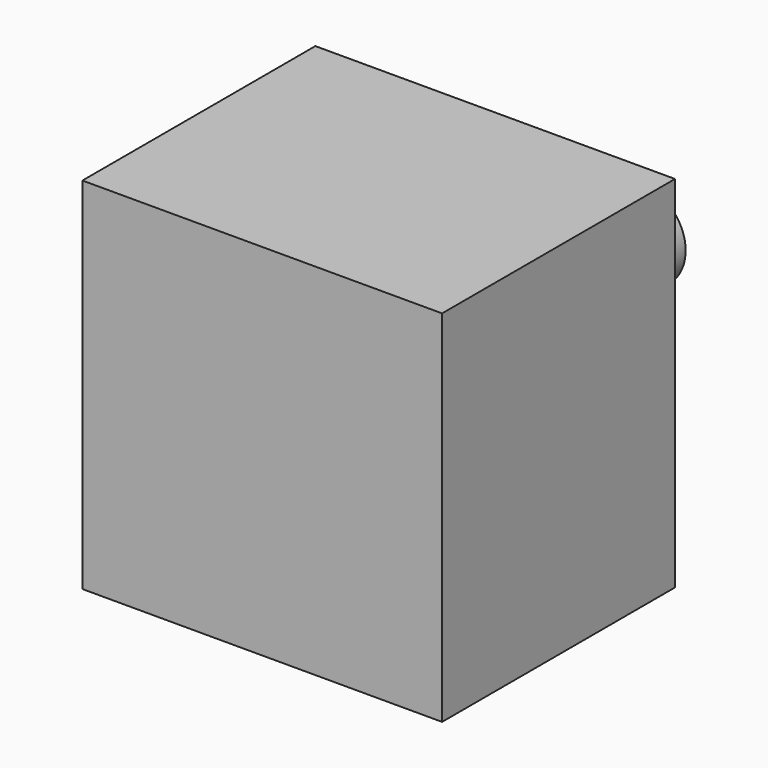
from build123d import *

# Parameters (mm, degrees)
F0_W      = 42
F0_H      = 42
F1_DEPTH  = 34
F2_R      = 1.834542
F3_DEPTH  = 5
F4_R      = 5.169646
F5_DEPTH  = 2
F6_R      = 1.823353
F7_DEPTH  = 7
F8_R      = 5.110436
F9_DEPTH  = 2
F10_R     = 1.842077
F11_DEPTH = 7
F12_R     = 5.194055
F13_DEPTH = 2


with BuildPart() as f1:
    # F0 (on Front) → F1 (new body)
    with BuildSketch(Plane.XZ):
        with Locations((21, 21)):
            Rectangle(F0_W, F0_H)
    extrude(amount=F1_DEPTH)

    # F2 (on face) → F3 (join)
    with BuildSketch(Plane.XZ):
        with Locations((21.093497, 21.097444)):
            Circle(F2_R)
    extrude(amount=-F3_DEPTH)

    # F4 (on face) → F5 (join)
    with BuildSketch(Plane(origin=(0, 5, 0), x_dir=(-1, 0, 0), z_dir=(0, 1, 0))):
        with Locations((-21.093497, 21.097444)):
            Circle(F4_R)
    extrude(amount=F5_DEPTH)

    # F6 (on face) → F7 (join)
    with BuildSketch(Plane(origin=(0, 5, 0), x_dir=(-1, 0, 0), z_dir=(0, 1, 0))):
        with Locations((-21.252004, 21.045802)):
            Circle(F6_R)
    extrude(amount=F7_DEPTH)

    # F8 (on face) → F9 (join)
    with BuildSketch(Plane(origin=(0, 12, 0), x_dir=(-1, 0, 0), z_dir=(0, 1, 0))):
        with Locations((-21.252004, 21.045802)):
            Circle(F8_R)
    extrude(amount=F9_DEPTH)

    # F10 (on face) → F11 (join)
    with BuildSketch(Plane(origin=(0, 12, 0), x_dir=(-1, 0, 0), z_dir=(0, 1, 0))):
        with Locations((-21.252004, 21.045802)):
            Circle(F10_R)
    extrude(amount=F11_DEPTH)

    # F12 (on face) → F13 (join)
    with BuildSketch(Plane(origin=(0, 19, 0), x_dir=(-1, 0, 0), z_dir=(0, 1, 0))):
        with Locations((-21.252004, 21.045802)):
            Circle(F12_R)
    extrude(amount=F13_DEPTH)


solid = f1.part
